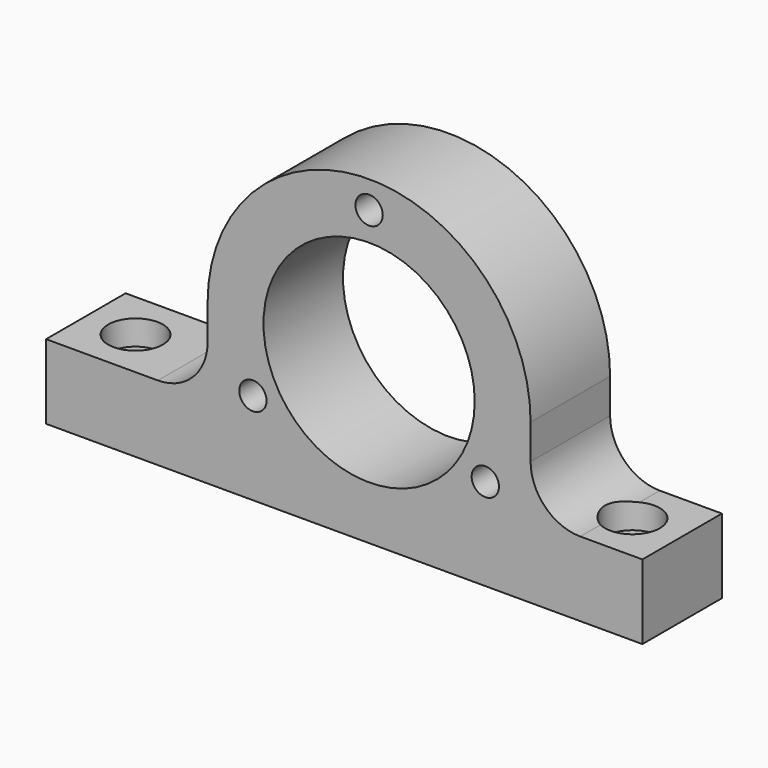
from build123d import *

# Parameters (mm, degrees)
F0_R     = 2.75
F0_R_2   = 21.25
F1_DEPTH = 20
F2_R     = 3.25
F3_DEPTH = 25
F4_R     = 5.5
F5_DEPTH = 22


with BuildPart() as f1:
    # F0 (on Front) → F1 (new body)
    with BuildSketch(Plane.XZ):
        with BuildLine():
            Line((32.5, -7), (32.5, 0))
            ThreePointArc((32.5, 0), (0, 32.5), (-32.5, 0))
            Line((-32.5, 0), (-32.5, -7))
            ThreePointArc((-32.5, -7), (-35.428932, -14.071068), (-42.5, -17))
            Line((-42.5, -17), (-65, -17))
            Line((-65, -17), (-65, -32))
            Line((-65, -32), (-32.5, -32))
            Line((-32.5, -32), (32.5, -32))
            Line((32.5, -32), (55, -32))
            Line((55, -32), (55, -17))
            Line((55, -17), (42.5, -17))
            ThreePointArc((42.5, -17), (35.428932, -14.071068), (32.5, -7))
        make_face()
        with Locations((-23.382686, -13.5)):
            Circle(F0_R, mode=Mode.SUBTRACT)
        with Locations((23.382686, -13.5)):
            Circle(F0_R, mode=Mode.SUBTRACT)
        Circle(F0_R_2, mode=Mode.SUBTRACT)
        with Locations((0, 27)):
            Circle(F0_R, mode=Mode.SUBTRACT)
    extrude(amount=F1_DEPTH)

    # F2 (on face) → F3 (cut)
    with BuildSketch(Plane.XY.offset(-17)):
        with Locations((-55, -10)):
            Circle(F2_R)
        with Locations((45, -10)):
            Circle(F2_R)
    extrude(amount=-F3_DEPTH, mode=Mode.SUBTRACT)

    # F4 (on Top) → F5 (cut)
    with BuildSketch(Plane.XY):
        with Locations((-55, -10)):
            Circle(F4_R)
        with Locations((45, -10)):
            Circle(F4_R)
    extrude(amount=-F5_DEPTH, mode=Mode.SUBTRACT)


solid = f1.part
